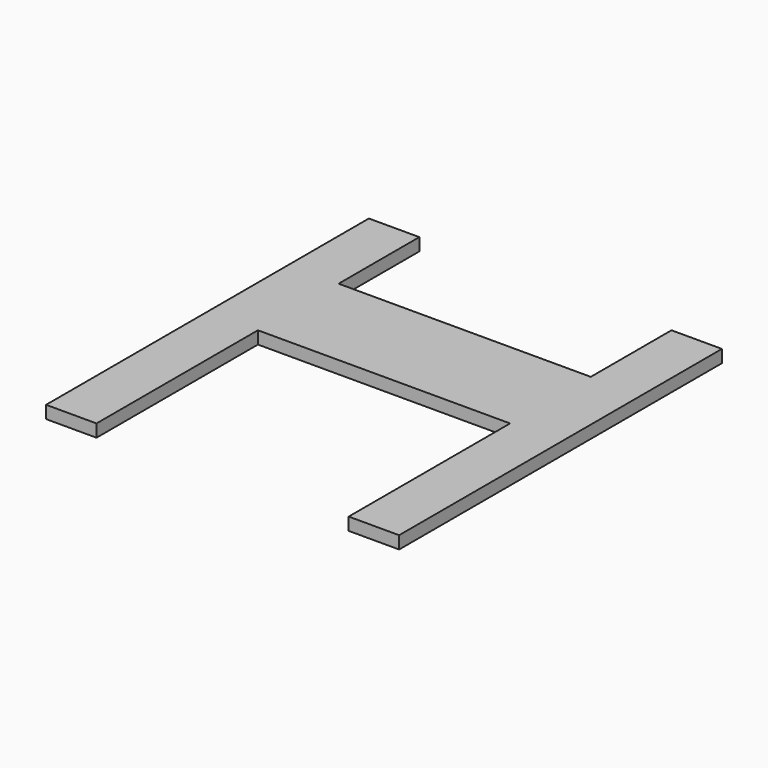
from build123d import *

# Parameters (mm, degrees)
F0_W     = 254
F0_H     = 101.6
F1_DEPTH = 12.7


with BuildPart() as f1:
    # F0 (on Top) → F1 (new body)
    with BuildSketch(Plane.XY):
        with Locations((0, 76.2)):
            Rectangle(F0_W, F0_H)
        Polygon((-177.8, 228.6), (-177.8, -177.8), (-127, -177.8), (-127, 25.4), (-127, 127), (-127, 228.6), align=None)
        Polygon((127, 127), (127, 25.4), (127, -177.8), (177.8, -177.8), (177.8, 228.6), (127, 228.6), align=None)
    extrude(amount=F1_DEPTH)


solid = f1.part
